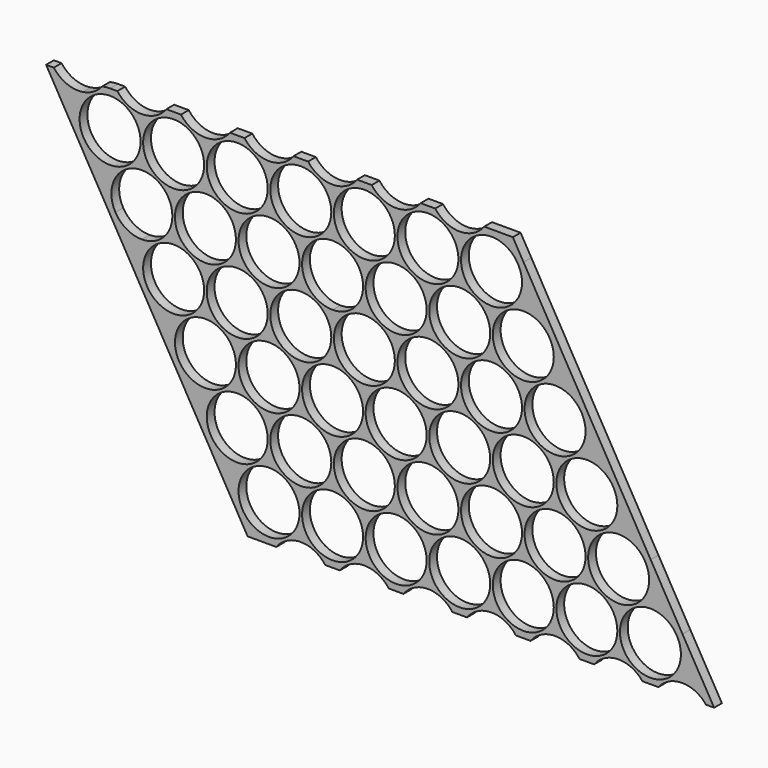
from build123d import *

# Parameters (mm, degrees)
F0_R     = 9.4
F1_DEPTH = 3


with BuildPart() as f1:
    # F0 (on Front) → F1 (new body)
    with BuildSketch(Plane.XZ):
        with BuildLine():
            Line((2.2501031329, 11.4), (0, 11.4))
            ThreePointArc((0, 11.4), (-1.2351313555, 11.332892417), (-2.4557211882, 11.1323597429))
            ThreePointArc((-2.4557211882, 11.1323597429), (-5.105156123, 8.8558830706), (-8.4028836117, 7.7039955223))
            ThreePointArc((-8.4028836117, 7.7039955223), (-13.3887415593, 8.3117357219), (-17.3498968671, 11.4))
            Line((-17.3498968671, 11.4), (-19.730339528, 11.4))
            Line((-19.730339528, 11.4), (-9.8764495211, -5.6934826651))
            Line((-9.8764495211, -5.6934826651), (-0.0764495211, -22.6934826651))
            Line((-0.0764495211, -22.6934826651), (19.5231148393, -56.6927269638))
            Line((19.5231148393, -56.6927269638), (29.3228970196, -73.6923491131))
            Line((29.3228970196, -73.6923491131), (39.1226791998, -90.6919712625))
            Line((39.1226791998, -90.6919712625), (42.4123186046, -96.3984885974))
            Line((42.4123186046, -96.3984885974), (48.8689445474, -96.3984885974))
            ThreePointArc((48.8689445474, -96.3984885974), (48.8691528124, -96.3981192912), (48.8693610912, -96.3977499928))
            ThreePointArc((48.8693610912, -96.3977499928), (48.934243855, -96.3983039447), (48.9991287208, -96.3984885974))
            Line((48.9991287208, -96.3984885974), (51.2487962142, -96.3984885974))
            ThreePointArc((51.2487962142, -96.3984885974), (58.798910901, -92.5981107467), (66.3490255879, -96.3984885974))
            Line((66.3490255879, -96.3984885974), (70.8487962142, -96.3984885974))
            ThreePointArc((70.8487962142, -96.3984885974), (78.398910901, -92.5981107467), (85.9490255879, -96.3984885974))
            Line((85.9490255879, -96.3984885974), (90.4487962142, -96.3984885974))
            ThreePointArc((90.4487962142, -96.3984885974), (97.998910901, -92.5981107467), (105.5490255879, -96.3984885974))
            Line((105.5490255879, -96.3984885974), (110.0487962142, -96.3984885974))
            ThreePointArc((110.0487962142, -96.3984885974), (117.598910901, -92.5981107467), (125.1490255879, -96.3984885974))
            Line((125.1490255879, -96.3984885974), (129.6487962142, -96.3984885974))
            ThreePointArc((129.6487962142, -96.3984885974), (137.198910901, -92.5981107467), (144.7490255879, -96.3984885974))
            Line((144.7490255879, -96.3984885974), (149.2487962142, -96.3984885974))
            ThreePointArc((149.2487962142, -96.3984885974), (156.6299506079, -92.5996293577), (164.1428786787, -96.1307316656))
            Line((164.1428786787, -96.1307316656), (169.0548499091, -96.1308483403))
            ThreePointArc((169.0548499091, -96.1308483403), (171.7042848439, -93.8543716679), (175.0020123326, -92.7024841197))
            ThreePointArc((175.0020123326, -92.7024841197), (179.8311995734, -93.2471454017), (183.742971893, -96.1308483403))
            Line((183.742971893, -96.1308483403), (186.2433594731, -96.1308483403))
            Line((186.2433594731, -96.1308483403), (176.4937597269, -79.3363251022))
            Line((176.4937597269, -79.3363251022), (176.4755782419, -79.3050059323))
            Line((176.4755782419, -79.3050059323), (166.6757960617, -62.3053837829))
            Line((166.6757960617, -62.3053837829), (127.4764495211, 5.6934826651))
            Line((127.4764495211, 5.6934826651), (124.1868101162, 11.4))
            Line((124.1868101162, 11.4), (117.6, 11.4))
            Line((117.6, 11.4), (115.3503325066, 11.4))
            ThreePointArc((115.3503325066, 11.4), (107.8002178198, 7.5996221493), (100.2501031329, 11.4))
            Line((100.2501031329, 11.4), (98, 11.4))
            Line((98, 11.4), (95.7503325066, 11.4))
            ThreePointArc((95.7503325066, 11.4), (88.2002178198, 7.5996221493), (80.6501031329, 11.4))
            Line((80.6501031329, 11.4), (76.1503325066, 11.4))
            ThreePointArc((76.1503325066, 11.4), (68.6002178198, 7.5996221493), (61.0501031329, 11.4))
            Line((61.0501031329, 11.4), (58.8, 11.4))
            Line((58.8, 11.4), (56.5503325066, 11.4))
            ThreePointArc((56.5503325066, 11.4), (49.0002178198, 7.5996221493), (41.4501031329, 11.4))
            Line((41.4501031329, 11.4), (36.9503325066, 11.4))
            ThreePointArc((36.9503325066, 11.4), (29.4002178198, 7.5996221493), (21.8501031329, 11.4))
            Line((21.8501031329, 11.4), (17.3503325066, 11.4))
            ThreePointArc((17.3503325066, 11.4), (9.8002178198, 7.5996221493), (2.2501031329, 11.4))
        make_face()
        with Locations((48.9991287208, -84.9984885974)):
            Circle(F0_R, mode=Mode.SUBTRACT)
        with Locations((68.5991287208, -84.9984885974)):
            Circle(F0_R, mode=Mode.SUBTRACT)
        with Locations((29.3995643604, -50.9992442987)):
            Circle(F0_R, mode=Mode.SUBTRACT)
        with Locations((39.1993465406, -67.998866448)):
            Circle(F0_R, mode=Mode.SUBTRACT)
        with Locations((58.7993465406, -67.998866448)):
            Circle(F0_R, mode=Mode.SUBTRACT)
        with Locations((78.3993465406, -67.998866448)):
            Circle(F0_R, mode=Mode.SUBTRACT)
        with Locations((48.9995643604, -50.9992442987)):
            Circle(F0_R, mode=Mode.SUBTRACT)
        with Locations((68.5995643604, -50.9992442987)):
            Circle(F0_R, mode=Mode.SUBTRACT)
        with Locations((88.1991287208, -84.9984885974)):
            Circle(F0_R, mode=Mode.SUBTRACT)
        with Locations((107.7991287208, -84.9984885974)):
            Circle(F0_R, mode=Mode.SUBTRACT)
        with Locations((127.3991287208, -84.9984885974)):
            Circle(F0_R, mode=Mode.SUBTRACT)
        with Locations((146.9991287208, -84.9984885974)):
            Circle(F0_R, mode=Mode.SUBTRACT)
        with Locations((166.5991287208, -84.9984885974)):
            Circle(F0_R, mode=Mode.SUBTRACT)
        with Locations((97.9993465406, -67.998866448)):
            Circle(F0_R, mode=Mode.SUBTRACT)
        with Locations((117.5993465406, -67.998866448)):
            Circle(F0_R, mode=Mode.SUBTRACT)
        with Locations((88.1995643604, -50.9992442987)):
            Circle(F0_R, mode=Mode.SUBTRACT)
        with Locations((107.7995643604, -50.9992442987)):
            Circle(F0_R, mode=Mode.SUBTRACT)
        with Locations((127.3995643604, -50.9992442987)):
            Circle(F0_R, mode=Mode.SUBTRACT)
        with Locations((137.1993465406, -67.998866448)):
            Circle(F0_R, mode=Mode.SUBTRACT)
        with Locations((156.7993465406, -67.998866448)):
            Circle(F0_R, mode=Mode.SUBTRACT)
        with Locations((146.9995643604, -50.9992442987)):
            Circle(F0_R, mode=Mode.SUBTRACT)
        with Locations((19.5997821802, -33.9996221493)):
            Circle(F0_R, mode=Mode.SUBTRACT)
        with BuildLine():
            ThreePointArc((1.6562609212, -21.6946260572), (7.370097465, -7.919494856), (19.2, -17))
            ThreePointArc((19.2, -17), (16.4468037432, -23.6468037432), (9.8, -26.4))
            ThreePointArc((9.8, -26.4), (5.0973137962, -25.1390873241), (1.6562609212, -21.6946260572))
        make_face(mode=Mode.SUBTRACT)
        with Locations((29.4, -17)):
            Circle(F0_R, mode=Mode.SUBTRACT)
        with Locations((39.1997821802, -33.9996221493)):
            Circle(F0_R, mode=Mode.SUBTRACT)
        with Locations((58.7997821802, -33.9996221493)):
            Circle(F0_R, mode=Mode.SUBTRACT)
        with Locations((78.3997821802, -33.9996221493)):
            Circle(F0_R, mode=Mode.SUBTRACT)
        with Locations((49, -17)):
            Circle(F0_R, mode=Mode.SUBTRACT)
        with BuildLine():
            ThreePointArc((76.7437390788, -12.3053739428), (77.680505144, -14.570097465), (78, -17))
            ThreePointArc((78, -17), (75.2468037432, -23.6468037432), (68.6, -26.4))
            ThreePointArc((68.6, -26.4), (60.4609126759, -12.2973137962), (76.7437390788, -12.3053739428))
        make_face(mode=Mode.SUBTRACT)
        with BuildLine():
            ThreePointArc((0, 9.4), (6.6468037432, 6.6468037432), (9.4, 0))
            ThreePointArc((9.4, 0), (2.429902535, -9.080505144), (-8.1437390788, -4.6946260572))
            ThreePointArc((-8.1437390788, -4.6946260572), (-8.1390873241, 4.7026862038), (0, 9.4))
        make_face(mode=Mode.SUBTRACT)
        with Locations((19.6, 0)):
            Circle(F0_R, mode=Mode.SUBTRACT)
        with Locations((39.2, 0)):
            Circle(F0_R, mode=Mode.SUBTRACT)
        with BuildLine():
            ThreePointArc((66.9437390788, 4.6946260572), (67.880505144, 2.429902535), (68.2, 0))
            ThreePointArc((68.2, 0), (52.1531962568, -6.6468037432), (58.8, 9.4))
            ThreePointArc((58.8, 9.4), (63.5026862038, 8.1390873241), (66.9437390788, 4.6946260572))
        make_face(mode=Mode.SUBTRACT)
        with Locations((78.4, 0)):
            Circle(F0_R, mode=Mode.SUBTRACT)
        with Locations((97.9997821802, -33.9996221493)):
            Circle(F0_R, mode=Mode.SUBTRACT)
        with Locations((117.5997821802, -33.9996221493)):
            Circle(F0_R, mode=Mode.SUBTRACT)
        with Locations((88.2, -17)):
            Circle(F0_R, mode=Mode.SUBTRACT)
        with Locations((107.8, -17)):
            Circle(F0_R, mode=Mode.SUBTRACT)
        with Locations((127.4, -17)):
            Circle(F0_R, mode=Mode.SUBTRACT)
        with Locations((137.1997821802, -33.9996221493)):
            Circle(F0_R, mode=Mode.SUBTRACT)
        with Locations((98, 0)):
            Circle(F0_R, mode=Mode.SUBTRACT)
        with Locations((117.6, 0)):
            Circle(F0_R, mode=Mode.SUBTRACT)
        with BuildLine():
            ThreePointArc((48.8693610912, -96.3977499928), (48.8691528124, -96.3981192912), (48.8689445474, -96.3984885974))
            Line((48.8689445474, -96.3984885974), (48.9991287208, -96.3984885974))
            ThreePointArc((48.9991287208, -96.3984885974), (48.934243855, -96.3983039447), (48.8693610912, -96.3977499928))
        make_face()
        with BuildLine():
            Line((2.2501031329, 11.4), (0, 11.4))
            ThreePointArc((0, 11.4), (-1.2351313555, 11.332892417), (-2.4557211882, 11.1323597429))
            ThreePointArc((-2.4557211882, 11.1323597429), (-5.105156123, 8.8558830706), (-8.4028836117, 7.7039955223))
            ThreePointArc((-8.4028836117, 7.7039955223), (-13.3887415593, 8.3117357219), (-17.3498968671, 11.4))
            Line((-17.3498968671, 11.4), (-19.730339528, 11.4))
            Line((-19.730339528, 11.4), (-9.8764495211, -5.6934826651))
            Line((-9.8764495211, -5.6934826651), (-0.0764495211, -22.6934826651))
            Line((-0.0764495211, -22.6934826651), (19.5231148393, -56.6927269638))
            Line((19.5231148393, -56.6927269638), (29.3228970196, -73.6923491131))
            Line((29.3228970196, -73.6923491131), (39.1226791998, -90.6919712625))
            Line((39.1226791998, -90.6919712625), (42.4123186046, -96.3984885974))
            Line((42.4123186046, -96.3984885974), (48.8689445474, -96.3984885974))
            ThreePointArc((48.8689445474, -96.3984885974), (48.8691528124, -96.3981192912), (48.8693610912, -96.3977499928))
            ThreePointArc((48.8693610912, -96.3977499928), (48.934243855, -96.3983039447), (48.9991287208, -96.3984885974))
            Line((48.9991287208, -96.3984885974), (51.2487962142, -96.3984885974))
            ThreePointArc((51.2487962142, -96.3984885974), (58.798910901, -92.5981107467), (66.3490255879, -96.3984885974))
            Line((66.3490255879, -96.3984885974), (70.8487962142, -96.3984885974))
            ThreePointArc((70.8487962142, -96.3984885974), (78.398910901, -92.5981107467), (85.9490255879, -96.3984885974))
            Line((85.9490255879, -96.3984885974), (90.4487962142, -96.3984885974))
            ThreePointArc((90.4487962142, -96.3984885974), (97.998910901, -92.5981107467), (105.5490255879, -96.3984885974))
            Line((105.5490255879, -96.3984885974), (110.0487962142, -96.3984885974))
            ThreePointArc((110.0487962142, -96.3984885974), (117.598910901, -92.5981107467), (125.1490255879, -96.3984885974))
            Line((125.1490255879, -96.3984885974), (129.6487962142, -96.3984885974))
            ThreePointArc((129.6487962142, -96.3984885974), (137.198910901, -92.5981107467), (144.7490255879, -96.3984885974))
            Line((144.7490255879, -96.3984885974), (149.2487962142, -96.3984885974))
            ThreePointArc((149.2487962142, -96.3984885974), (156.6299506079, -92.5996293577), (164.1428786787, -96.1307316656))
            Line((164.1428786787, -96.1307316656), (169.0548499091, -96.1308483403))
            ThreePointArc((169.0548499091, -96.1308483403), (171.7042848439, -93.8543716679), (175.0020123326, -92.7024841197))
            ThreePointArc((175.0020123326, -92.7024841197), (179.8311995734, -93.2471454017), (183.742971893, -96.1308483403))
            Line((183.742971893, -96.1308483403), (186.2433594731, -96.1308483403))
            Line((186.2433594731, -96.1308483403), (176.4937597269, -79.3363251022))
            Line((176.4937597269, -79.3363251022), (176.4755782419, -79.3050059323))
            Line((176.4755782419, -79.3050059323), (166.6757960617, -62.3053837829))
            Line((166.6757960617, -62.3053837829), (127.4764495211, 5.6934826651))
            Line((127.4764495211, 5.6934826651), (124.1868101162, 11.4))
            Line((124.1868101162, 11.4), (117.6, 11.4))
            Line((117.6, 11.4), (115.3503325066, 11.4))
            ThreePointArc((115.3503325066, 11.4), (107.8002178198, 7.5996221493), (100.2501031329, 11.4))
            Line((100.2501031329, 11.4), (98, 11.4))
            Line((98, 11.4), (95.7503325066, 11.4))
            ThreePointArc((95.7503325066, 11.4), (88.2002178198, 7.5996221493), (80.6501031329, 11.4))
            Line((80.6501031329, 11.4), (76.1503325066, 11.4))
            ThreePointArc((76.1503325066, 11.4), (68.6002178198, 7.5996221493), (61.0501031329, 11.4))
            Line((61.0501031329, 11.4), (58.8, 11.4))
            Line((58.8, 11.4), (56.5503325066, 11.4))
            ThreePointArc((56.5503325066, 11.4), (49.0002178198, 7.5996221493), (41.4501031329, 11.4))
            Line((41.4501031329, 11.4), (36.9503325066, 11.4))
            ThreePointArc((36.9503325066, 11.4), (29.4002178198, 7.5996221493), (21.8501031329, 11.4))
            Line((21.8501031329, 11.4), (17.3503325066, 11.4))
            ThreePointArc((17.3503325066, 11.4), (9.8002178198, 7.5996221493), (2.2501031329, 11.4))
        make_face()
        with Locations((48.9991287208, -84.9984885974)):
            Circle(F0_R, mode=Mode.SUBTRACT)
        with Locations((68.5991287208, -84.9984885974)):
            Circle(F0_R, mode=Mode.SUBTRACT)
        with Locations((29.3995643604, -50.9992442987)):
            Circle(F0_R, mode=Mode.SUBTRACT)
        with Locations((39.1993465406, -67.998866448)):
            Circle(F0_R, mode=Mode.SUBTRACT)
        with Locations((58.7993465406, -67.998866448)):
            Circle(F0_R, mode=Mode.SUBTRACT)
        with Locations((78.3993465406, -67.998866448)):
            Circle(F0_R, mode=Mode.SUBTRACT)
        with Locations((48.9995643604, -50.9992442987)):
            Circle(F0_R, mode=Mode.SUBTRACT)
        with Locations((68.5995643604, -50.9992442987)):
            Circle(F0_R, mode=Mode.SUBTRACT)
        with Locations((88.1991287208, -84.9984885974)):
            Circle(F0_R, mode=Mode.SUBTRACT)
        with Locations((107.7991287208, -84.9984885974)):
            Circle(F0_R, mode=Mode.SUBTRACT)
        with Locations((127.3991287208, -84.9984885974)):
            Circle(F0_R, mode=Mode.SUBTRACT)
        with Locations((146.9991287208, -84.9984885974)):
            Circle(F0_R, mode=Mode.SUBTRACT)
        with Locations((166.5991287208, -84.9984885974)):
            Circle(F0_R, mode=Mode.SUBTRACT)
        with Locations((97.9993465406, -67.998866448)):
            Circle(F0_R, mode=Mode.SUBTRACT)
        with Locations((117.5993465406, -67.998866448)):
            Circle(F0_R, mode=Mode.SUBTRACT)
        with Locations((88.1995643604, -50.9992442987)):
            Circle(F0_R, mode=Mode.SUBTRACT)
        with Locations((107.7995643604, -50.9992442987)):
            Circle(F0_R, mode=Mode.SUBTRACT)
        with Locations((127.3995643604, -50.9992442987)):
            Circle(F0_R, mode=Mode.SUBTRACT)
        with Locations((137.1993465406, -67.998866448)):
            Circle(F0_R, mode=Mode.SUBTRACT)
        with Locations((156.7993465406, -67.998866448)):
            Circle(F0_R, mode=Mode.SUBTRACT)
        with Locations((146.9995643604, -50.9992442987)):
            Circle(F0_R, mode=Mode.SUBTRACT)
        with Locations((19.5997821802, -33.9996221493)):
            Circle(F0_R, mode=Mode.SUBTRACT)
        with BuildLine():
            ThreePointArc((1.6562609212, -21.6946260572), (7.370097465, -7.919494856), (19.2, -17))
            ThreePointArc((19.2, -17), (16.4468037432, -23.6468037432), (9.8, -26.4))
            ThreePointArc((9.8, -26.4), (5.0973137962, -25.1390873241), (1.6562609212, -21.6946260572))
        make_face(mode=Mode.SUBTRACT)
        with Locations((29.4, -17)):
            Circle(F0_R, mode=Mode.SUBTRACT)
        with Locations((39.1997821802, -33.9996221493)):
            Circle(F0_R, mode=Mode.SUBTRACT)
        with Locations((58.7997821802, -33.9996221493)):
            Circle(F0_R, mode=Mode.SUBTRACT)
        with Locations((78.3997821802, -33.9996221493)):
            Circle(F0_R, mode=Mode.SUBTRACT)
        with Locations((49, -17)):
            Circle(F0_R, mode=Mode.SUBTRACT)
        with BuildLine():
            ThreePointArc((76.7437390788, -12.3053739428), (77.680505144, -14.570097465), (78, -17))
            ThreePointArc((78, -17), (75.2468037432, -23.6468037432), (68.6, -26.4))
            ThreePointArc((68.6, -26.4), (60.4609126759, -12.2973137962), (76.7437390788, -12.3053739428))
        make_face(mode=Mode.SUBTRACT)
        with BuildLine():
            ThreePointArc((0, 9.4), (6.6468037432, 6.6468037432), (9.4, 0))
            ThreePointArc((9.4, 0), (2.429902535, -9.080505144), (-8.1437390788, -4.6946260572))
            ThreePointArc((-8.1437390788, -4.6946260572), (-8.1390873241, 4.7026862038), (0, 9.4))
        make_face(mode=Mode.SUBTRACT)
        with Locations((19.6, 0)):
            Circle(F0_R, mode=Mode.SUBTRACT)
        with Locations((39.2, 0)):
            Circle(F0_R, mode=Mode.SUBTRACT)
        with BuildLine():
            ThreePointArc((66.9437390788, 4.6946260572), (67.880505144, 2.429902535), (68.2, 0))
            ThreePointArc((68.2, 0), (52.1531962568, -6.6468037432), (58.8, 9.4))
            ThreePointArc((58.8, 9.4), (63.5026862038, 8.1390873241), (66.9437390788, 4.6946260572))
        make_face(mode=Mode.SUBTRACT)
        with Locations((78.4, 0)):
            Circle(F0_R, mode=Mode.SUBTRACT)
        with Locations((97.9997821802, -33.9996221493)):
            Circle(F0_R, mode=Mode.SUBTRACT)
        with Locations((117.5997821802, -33.9996221493)):
            Circle(F0_R, mode=Mode.SUBTRACT)
        with Locations((88.2, -17)):
            Circle(F0_R, mode=Mode.SUBTRACT)
        with Locations((107.8, -17)):
            Circle(F0_R, mode=Mode.SUBTRACT)
        with Locations((127.4, -17)):
            Circle(F0_R, mode=Mode.SUBTRACT)
        with Locations((137.1997821802, -33.9996221493)):
            Circle(F0_R, mode=Mode.SUBTRACT)
        with Locations((98, 0)):
            Circle(F0_R, mode=Mode.SUBTRACT)
        with Locations((117.6, 0)):
            Circle(F0_R, mode=Mode.SUBTRACT)
    extrude(amount=F1_DEPTH)


solid = f1.part
